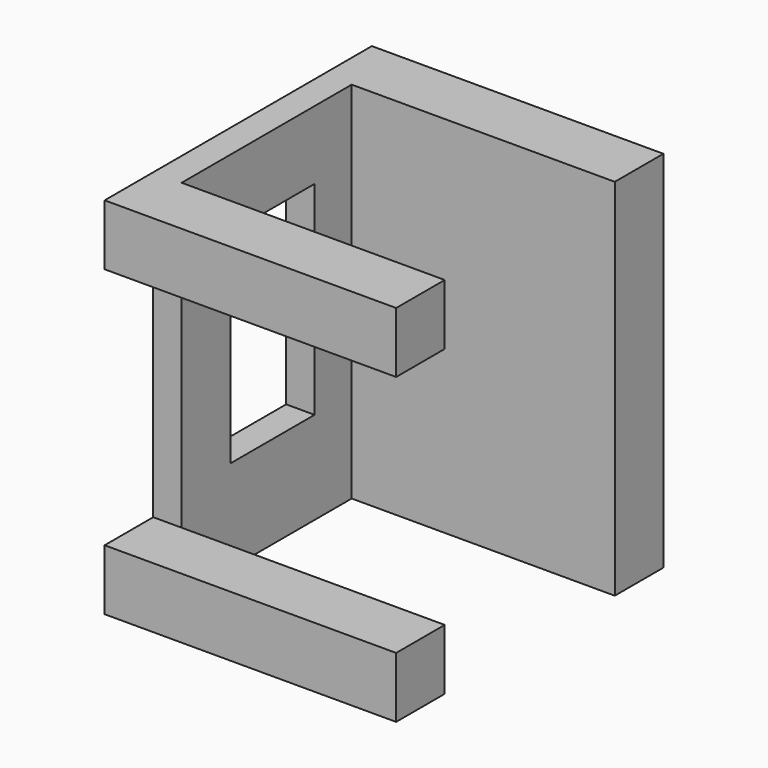
from build123d import *

# Parameters (mm, degrees)
F0_W     = 60.96
F0_H     = 76.2
F1_DEPTH = 12.7
F2_W     = 5.9436
F2_H     = 76.2
F3_DEPTH = 57.15
F4_W     = 12.7
F4_H     = 76.2
F5_DEPTH = 55.0164
F6_W     = 12.7
F6_H     = 50.8
F7_DEPTH = 63.5
F8_W     = 21.945603
F8_H     = 42.519599
F9_DEPTH = 25.4


with BuildPart() as f1:
    # F0 (on Front) → F1 (new body)
    with BuildSketch(Plane.XZ):
        with Locations((-4.267202, 18.7452)):
            Rectangle(F0_W, F0_H)
    extrude(amount=F1_DEPTH)

    # F2 (on face) → F3 (join)
    with BuildSketch(Plane(origin=(0, 0, 0), x_dir=(-1, 0, 0), z_dir=(0, 1, 0))):
        with Locations((31.775402, 18.7452)):
            Rectangle(F2_W, F2_H)
    extrude(amount=F3_DEPTH)

    # F4 (on face) → F5 (join)
    with BuildSketch(Plane.YZ.offset(-28.803602)):
        with Locations((50.8, 18.7452)):
            Rectangle(F4_W, F4_H)
    extrude(amount=F5_DEPTH)

    # F6 (on face) → F7 (cut)
    with BuildSketch(Plane.YZ.offset(26.212798)):
        with Locations((-6.35, 18.7452)):
            Rectangle(F6_W, F6_H)
        with Locations((-6.35, 18.7452)):
            Rectangle(F6_W, F6_H)
    extrude(amount=-F7_DEPTH, mode=Mode.SUBTRACT)

    # F8 (on face) → F9 (cut)
    with BuildSketch(Plane.YZ.offset(-28.803602)):
        with Locations((23.7744, 21.259799)):
            Rectangle(F8_W, F8_H)
    extrude(amount=-F9_DEPTH, mode=Mode.SUBTRACT)


solid = f1.part
